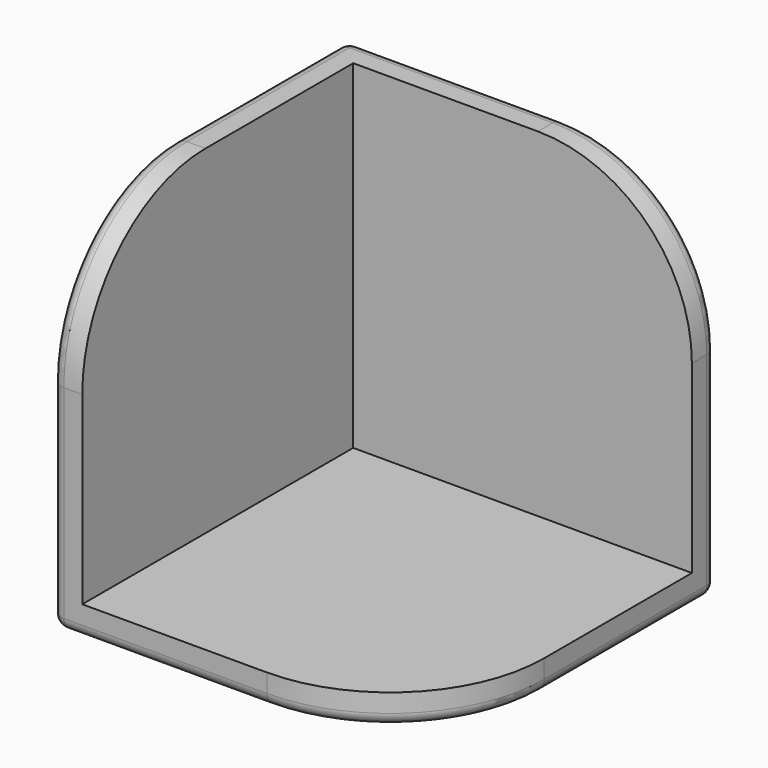
from build123d import *

# Parameters (mm, degrees)
F0_W     = 60
F0_H     = 60
F1_DEPTH = 5
F2_W     = 55
F2_H     = 5
F3_DEPTH = 55
F4_R     = 25
F5_R     = 2


with BuildPart() as f1:
    # F0 (on Top) → F1 (new body)
    with BuildSketch(Plane.XY):
        Rectangle(F0_W, F0_H)
    extrude(amount=F1_DEPTH)

    # F2 (on face) → F3 (join)
    with BuildSketch(Plane.XY.offset(5)):
        Polygon((-25, 30), (-30, 30), (-30, -30), (-25, -30), (-25, 25), align=None)
        with Locations((2.5, 27.5)):
            Rectangle(F2_W, F2_H)
    extrude(amount=F3_DEPTH)

    # F4
    f4_edges = [f1.edges().sort_by_distance(p)[0] for p in [
        (30, 27.5, 60),
        (-27.5, -30, 60),
        (30, -30, 2.5),
    ]]
    fillet(f4_edges, radius=F4_R)

    # F5
    f5_edges = [f1.edges().sort_by_distance(p)[0] for p in [
        (-12.5, -30, 0),
        (22.67767, -22.67767, 0),
        (-30, 0, 0),
        (30, 12.5, 0),
        (0, 30, 0),
        (-30, 12.5, 60),
        (-30, -22.67767, 52.67767),
        (-30, 30, 30),
        (-30, -30, 17.5),
        (30, 30, 17.5),
        (22.67767, 30, 52.67767),
        (-12.5, 30, 60),
    ]]
    fillet(f5_edges, radius=F5_R)


solid = f1.part
